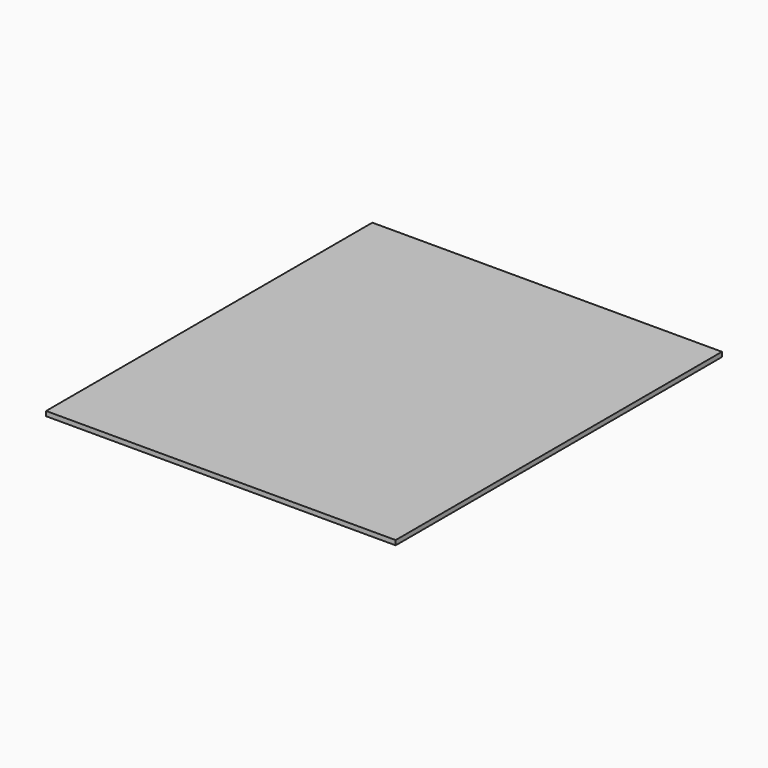
from build123d import *

# Parameters (mm, degrees)
F0_W     = 400
F0_H     = 700
F1_DEPTH = 4
F3_DEPTH = 4


with BuildPart() as f1:
    # F0 (on Top) → F1 (new body)
    with BuildSketch(Plane.XY):
        with Locations((200, 350)):
            Rectangle(F0_W, F0_H)
    extrude(amount=F1_DEPTH)

    # F2 (on face) → F3 (cut, through all)
    with BuildSketch(Plane.XY.offset(4)):
        Polygon((300, 250), (0, 250), (0, 0), (400, 0), (400, 700), (0, 700), (0, 600), (300, 600), align=None)
    extrude(amount=-F3_DEPTH, mode=Mode.SUBTRACT)


solid = f1.part
